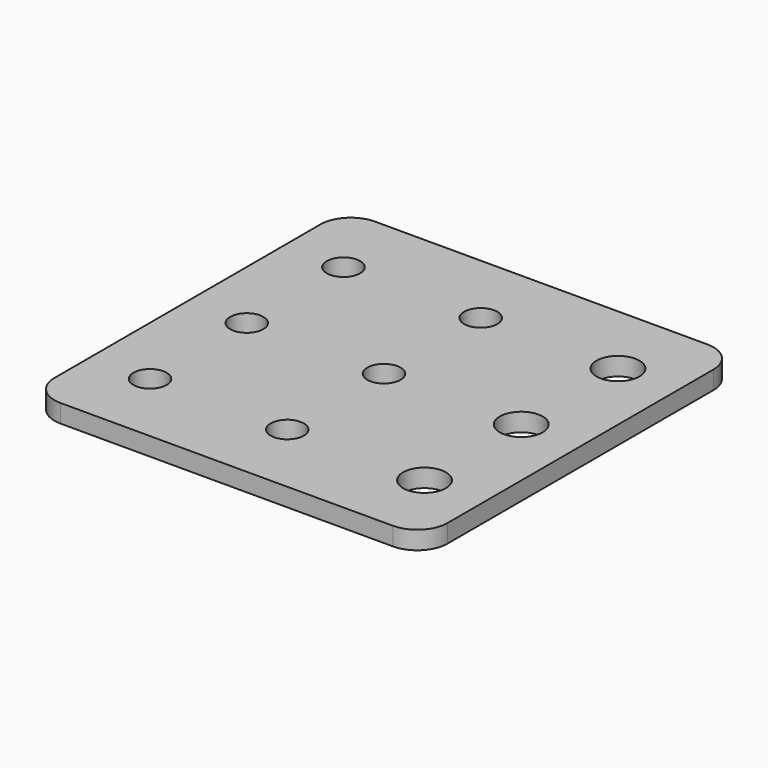
from build123d import *

# Parameters (mm, degrees)
F0_W     = 65
F0_H     = 65
F1_DEPTH = 3
F2_R     = 5
F4_D     = 5.5
F6_D     = 7.1


with BuildPart() as f1:
    # F0 (on Top) → F1 (new body)
    with BuildSketch(Plane.XY):
        Rectangle(F0_W, F0_H)
    extrude(amount=F1_DEPTH)

    # F2
    f2_edges = [f1.edges().sort_by_distance(p)[0] for p in [
        (-32.5, 32.5, 1.5),
        (32.5, 32.5, 1.5),
        (32.5, -32.5, 1.5),
        (-32.5, -32.5, 1.5),
    ]]
    fillet(f2_edges, radius=F2_R)

    # F4 (through all)
    with Locations(Plane.XY.offset(3)):
        with Locations((-22.7, 20), (-22.7, -20), (0, -20), (0, 20), (-22.7, 0), (0, 0)):
            Hole(F4_D / 2)

    # F6 (through all)
    with Locations(Plane.XY.offset(3)):
        with Locations((22.7, 20), (22.7, -20), (22.7, 0)):
            Hole(F6_D / 2)


solid = f1.part
